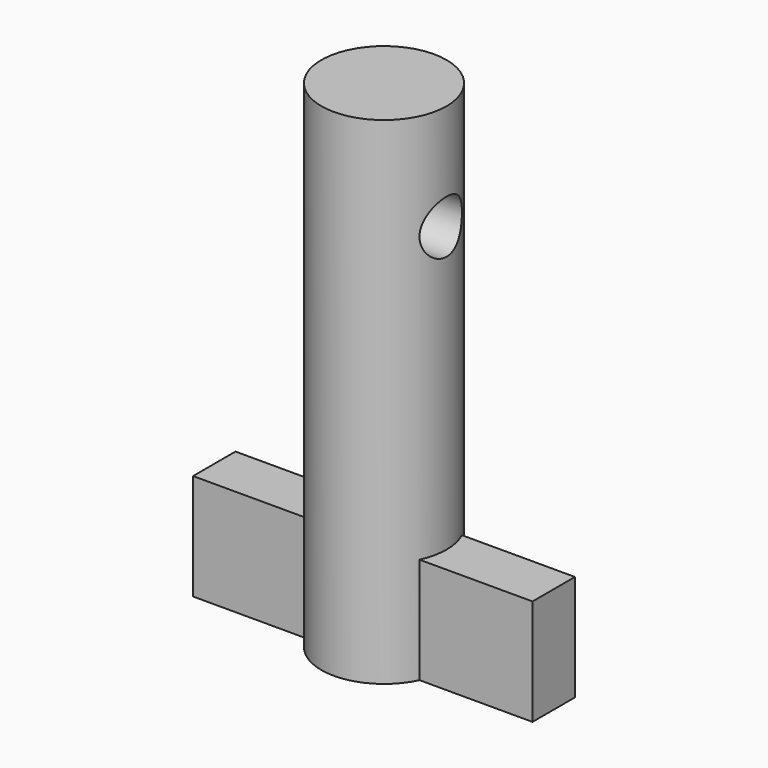
from build123d import *

# Parameters (mm, degrees)
F0_R     = 3.7465
F1_DEPTH = 29.718
F2_W     = 1.5875
F2_H     = 6.35
F3_DEPTH = 10.16
F4_R     = 1.5875
F5_DEPTH = 25.4


with BuildPart() as f1:
    # F0 (on Top) → F1 (new body)
    with BuildSketch(Plane.XY):
        Circle(F0_R)
    extrude(amount=F1_DEPTH)

    # F2 (on Right) → F3 (join, symmetric)
    with BuildSketch(Plane.YZ):
        with Locations((-0.79375, 3.175)):
            Rectangle(F2_W, F2_H)
        with Locations((0.79375, 3.175)):
            Rectangle(F2_W, F2_H)
    extrude(amount=F3_DEPTH, both=True)

    # F4 (on face) → F5 (cut)
    with BuildSketch(Plane.YZ.offset(10.16)):
        with Locations((0, 23.368)):
            Circle(F4_R)
    extrude(amount=-F5_DEPTH, mode=Mode.SUBTRACT)


solid = f1.part
